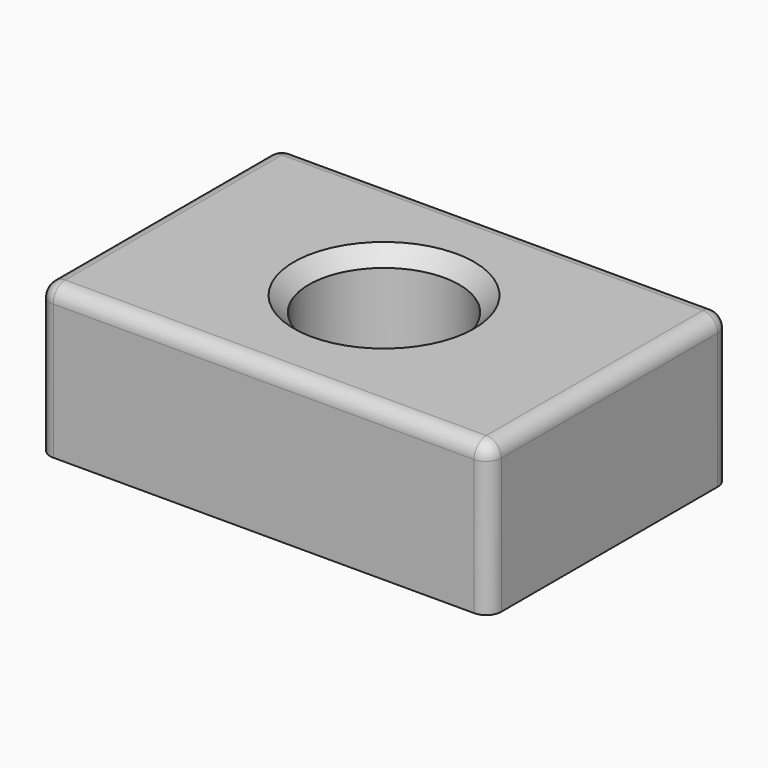
from build123d import *

# Parameters (mm, degrees)
F0_W     = 152.4
F0_H     = 101.6
F0_R     = 25.4
F1_DEPTH = 50.8
F2_R     = 5.08
F3_R     = 5.08
F4_R     = 5.08
F5_R     = 5.08
F6_SIZE  = 5.08


with BuildPart() as f1:
    # F0 (on Top) → F1 (new body)
    with BuildSketch(Plane.XY):
        Rectangle(F0_W, F0_H)
        Circle(F0_R, mode=Mode.SUBTRACT)
    extrude(amount=F1_DEPTH)

    # F2
    f2_edges = [f1.edges().sort_by_distance(p)[0] for p in [
        (0, -50.8, 50.8),
    ]]
    fillet(f2_edges, radius=F2_R)

    # F3
    f3_edges = [f1.edges().sort_by_distance(p)[0] for p in [
        (76.2, 2.54, 50.8),
    ]]
    fillet(f3_edges, radius=F3_R)

    # F4
    f4_edges = [f1.edges().sort_by_distance(p)[0] for p in [
        (-76.2, 2.54, 50.8),
    ]]
    fillet(f4_edges, radius=F4_R)

    # F5
    f5_edges = [f1.edges().sort_by_distance(p)[0] for p in [
        (-71.12, 2.54, 50.8),
        (0, 50.8, 50.8),
    ]]
    fillet(f5_edges, radius=F5_R)

    # F6
    f6_edges = [f1.edges().sort_by_distance(p)[0] for p in [
        (-25.4, 0, 50.8),
    ]]
    chamfer(f6_edges, length=F6_SIZE)


solid = f1.part
